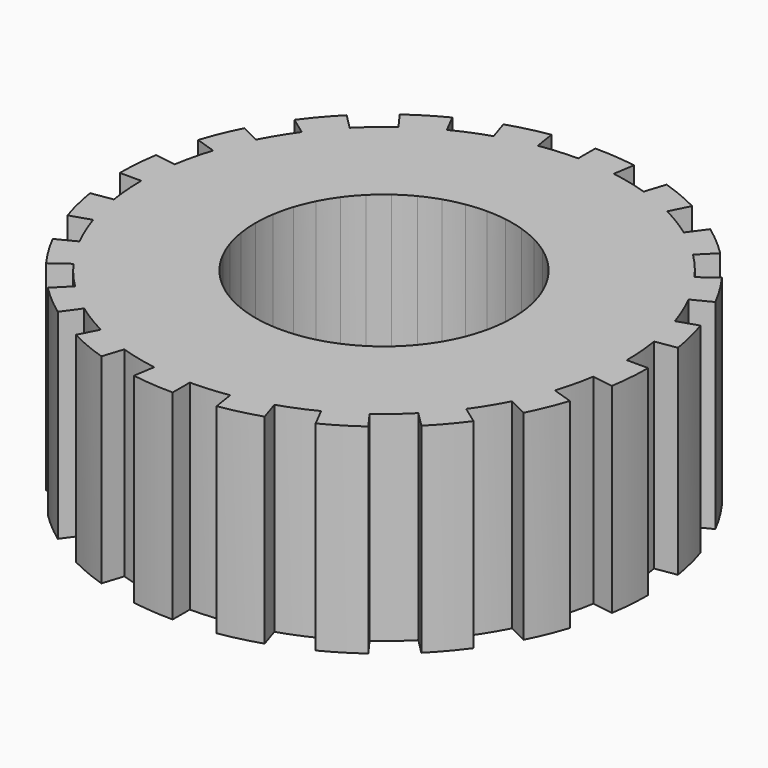
from build123d import *

# Parameters (mm, degrees)
F1_DEPTH = 14


with BuildPart() as f1:
    # F0 (on Top) → F1 (new body)
    with BuildSketch(Plane.XY):
        with BuildLine():
            Line((13.753289, -9.992349), (7.281153, -5.290067))
            ThreePointArc((7.281153, -5.290067), (6.843654, -5.845032), (6.363961, -6.363961))
            Line((6.363961, -6.363961), (12.020815, -12.020815))
            Line((12.020815, -12.020815), (13.081475, -13.081475))
            ThreePointArc((13.081475, -13.081475), (14.06751, -12.014789), (14.966814, -10.874027))
            Line((14.966814, -10.874027), (13.753289, -9.992349))
        make_face()
        with BuildLine():
            Line((15.147111, -7.717838), (8.019059, -4.085914))
            ThreePointArc((8.019059, -4.085914), (7.673761, -4.702487), (7.281153, -5.290067))
            Line((7.281153, -5.290067), (13.753289, -9.992349))
            ThreePointArc((13.753289, -9.992349), (14.494883, -8.882476), (15.147111, -7.717838))
        make_face()
        with BuildLine():
            Line((12.020815, -12.020815), (6.363961, -6.363961))
            ThreePointArc((6.363961, -6.363961), (5.845032, -6.843654), (5.290067, -7.281153))
            Line((5.290067, -7.281153), (9.992349, -13.753289))
            ThreePointArc((9.992349, -13.753289), (11.040617, -12.926901), (12.020815, -12.020815))
        make_face()
        with BuildLine():
            Line((17, 0), (9, 0))
            ThreePointArc((9, 0), (8.972256, -0.706132), (8.889195, -1.40791))
            Line((8.889195, -1.40791), (16.790702, -2.659386))
            Line((16.790702, -2.659386), (18.272234, -2.894038))
            ThreePointArc((18.272234, -2.894038), (18.442971, -1.451493), (18.5, 0))
            Line((18.5, 0), (17, 0))
        make_face()
        with BuildLine():
            Line((16.167961, -5.253289), (8.559509, -2.781153))
            ThreePointArc((8.559509, -2.781153), (8.314916, -3.444151), (8.019059, -4.085914))
            Line((8.019059, -4.085914), (15.147111, -7.717838))
            Line((15.147111, -7.717838), (16.483621, -8.398824))
            ThreePointArc((16.483621, -8.398824), (17.091771, -7.079643), (17.594546, -5.716814))
            Line((17.594546, -5.716814), (16.167961, -5.253289))
        make_face()
        with BuildLine():
            ThreePointArc((-5.290067, -7.281153), (-5.845032, -6.843654), (-6.363961, -6.363961))
            Line((-6.363961, -6.363961), (-12.020815, -12.020815))
            Line((-12.020815, -12.020815), (-13.081475, -13.081475))
            ThreePointArc((-13.081475, -13.081475), (-12.014789, -14.06751), (-10.874027, -14.966814))
            Line((-10.874027, -14.966814), (-9.992349, -13.753289))
            Line((-9.992349, -13.753289), (-5.290067, -7.281153))
        make_face()
        with BuildLine():
            Line((16.167961, 5.253289), (8.559509, 2.781153))
            ThreePointArc((8.559509, 2.781153), (8.751329, 2.101008), (8.889195, 1.40791))
            Line((8.889195, 1.40791), (16.790702, 2.659386))
            Line((16.790702, 2.659386), (18.272234, 2.894038))
            ThreePointArc((18.272234, 2.894038), (17.988844, 4.318739), (17.594546, 5.716814))
            Line((17.594546, 5.716814), (16.167961, 5.253289))
        make_face()
        with BuildLine():
            ThreePointArc((-6.363961, -6.363961), (-6.843654, -5.845032), (-7.281153, -5.290067))
            Line((-7.281153, -5.290067), (-13.753289, -9.992349))
            ThreePointArc((-13.753289, -9.992349), (-12.926901, -11.040617), (-12.020815, -12.020815))
            Line((-12.020815, -12.020815), (-6.363961, -6.363961))
        make_face()
        with BuildLine():
            Line((16.790702, 2.659386), (8.889195, 1.40791))
            ThreePointArc((8.889195, 1.40791), (8.972256, 0.706132), (9, 0))
            Line((9, 0), (17, 0))
            ThreePointArc((17, 0), (16.947595, 1.333805), (16.790702, 2.659386))
        make_face()
        with BuildLine():
            ThreePointArc((-2.781153, -8.559509), (-3.444151, -8.314916), (-4.085914, -8.019059))
            Line((-4.085914, -8.019059), (-7.717838, -15.147111))
            Line((-7.717838, -15.147111), (-8.398824, -16.483621))
            ThreePointArc((-8.398824, -16.483621), (-7.079643, -17.091771), (-5.716814, -17.594546))
            Line((-5.716814, -17.594546), (-5.253289, -16.167961))
            Line((-5.253289, -16.167961), (-2.781153, -8.559509))
        make_face()
        with BuildLine():
            Line((13.753289, 9.992349), (7.281153, 5.290067))
            ThreePointArc((7.281153, 5.290067), (7.673761, 4.702487), (8.019059, 4.085914))
            Line((8.019059, 4.085914), (15.147111, 7.717838))
            Line((15.147111, 7.717838), (16.483621, 8.398824))
            ThreePointArc((16.483621, 8.398824), (15.773843, 9.666223), (14.966814, 10.874027))
            Line((14.966814, 10.874027), (13.753289, 9.992349))
        make_face()
        with BuildLine():
            ThreePointArc((-4.085914, -8.019059), (-4.702487, -7.673761), (-5.290067, -7.281153))
            Line((-5.290067, -7.281153), (-9.992349, -13.753289))
            ThreePointArc((-9.992349, -13.753289), (-8.882476, -14.494883), (-7.717838, -15.147111))
            Line((-7.717838, -15.147111), (-4.085914, -8.019059))
        make_face()
        with BuildLine():
            Line((15.147111, 7.717838), (8.019059, 4.085914))
            ThreePointArc((8.019059, 4.085914), (8.314916, 3.444151), (8.559509, 2.781153))
            Line((8.559509, 2.781153), (16.167961, 5.253289))
            ThreePointArc((16.167961, 5.253289), (15.705952, 6.505618), (15.147111, 7.717838))
        make_face()
        with BuildLine():
            ThreePointArc((0, -9), (-0.706132, -8.972256), (-1.40791, -8.889195))
            Line((-1.40791, -8.889195), (-2.659386, -16.790702))
            Line((-2.659386, -16.790702), (-2.894038, -18.272234))
            ThreePointArc((-2.894038, -18.272234), (-1.451493, -18.442971), (0, -18.5))
            Line((0, -18.5), (0, -17))
            Line((0, -17), (0, -9))
        make_face()
        with BuildLine():
            Line((9.992349, 13.753289), (5.290067, 7.281153))
            ThreePointArc((5.290067, 7.281153), (5.845032, 6.843654), (6.363961, 6.363961))
            Line((6.363961, 6.363961), (12.020815, 12.020815))
            Line((12.020815, 12.020815), (13.081475, 13.081475))
            ThreePointArc((13.081475, 13.081475), (12.014789, 14.06751), (10.874027, 14.966814))
            Line((10.874027, 14.966814), (9.992349, 13.753289))
        make_face()
        with BuildLine():
            ThreePointArc((-1.40791, -8.889195), (-2.101008, -8.751329), (-2.781153, -8.559509))
            Line((-2.781153, -8.559509), (-5.253289, -16.167961))
            ThreePointArc((-5.253289, -16.167961), (-3.968571, -16.530289), (-2.659386, -16.790702))
            Line((-2.659386, -16.790702), (-1.40791, -8.889195))
        make_face()
        with BuildLine():
            Line((12.020815, 12.020815), (6.363961, 6.363961))
            ThreePointArc((6.363961, 6.363961), (6.843654, 5.845032), (7.281153, 5.290067))
            Line((7.281153, 5.290067), (13.753289, 9.992349))
            ThreePointArc((13.753289, 9.992349), (12.926901, 11.040617), (12.020815, 12.020815))
        make_face()
        with BuildLine():
            Line((5.716814, 17.594546), (5.253289, 16.167961))
            Line((5.253289, 16.167961), (2.781153, 8.559509))
            ThreePointArc((2.781153, 8.559509), (3.444151, 8.314916), (4.085914, 8.019059))
            Line((4.085914, 8.019059), (7.717838, 15.147111))
            Line((7.717838, 15.147111), (8.398824, 16.483621))
            ThreePointArc((8.398824, 16.483621), (7.079643, 17.091771), (5.716814, 17.594546))
        make_face()
        with BuildLine():
            Line((5.253289, -16.167961), (2.781153, -8.559509))
            ThreePointArc((2.781153, -8.559509), (2.101008, -8.751329), (1.40791, -8.889195))
            Line((1.40791, -8.889195), (2.659386, -16.790702))
            Line((2.659386, -16.790702), (2.894038, -18.272234))
            ThreePointArc((2.894038, -18.272234), (4.318739, -17.988844), (5.716814, -17.594546))
            Line((5.716814, -17.594546), (5.253289, -16.167961))
        make_face()
        with BuildLine():
            ThreePointArc((-8.019059, -4.085914), (-8.314916, -3.444151), (-8.559509, -2.781153))
            Line((-8.559509, -2.781153), (-16.167961, -5.253289))
            ThreePointArc((-16.167961, -5.253289), (-15.705952, -6.505618), (-15.147111, -7.717838))
            Line((-15.147111, -7.717838), (-8.019059, -4.085914))
        make_face()
        with BuildLine():
            ThreePointArc((-8.889195, -1.40791), (-8.972256, -0.706132), (-9, 0))
            Line((-9, 0), (-17, 0))
            ThreePointArc((-17, 0), (-16.947595, -1.333805), (-16.790702, -2.659386))
            Line((-16.790702, -2.659386), (-8.889195, -1.40791))
        make_face()
        with BuildLine():
            ThreePointArc((-7.281153, -5.290067), (-7.673761, -4.702487), (-8.019059, -4.085914))
            Line((-8.019059, -4.085914), (-15.147111, -7.717838))
            Line((-15.147111, -7.717838), (-16.483621, -8.398824))
            ThreePointArc((-16.483621, -8.398824), (-15.773843, -9.666223), (-14.966814, -10.874027))
            Line((-14.966814, -10.874027), (-13.753289, -9.992349))
            Line((-13.753289, -9.992349), (-7.281153, -5.290067))
        make_face()
        with BuildLine():
            ThreePointArc((2.894038, 18.272234), (1.451493, 18.442971), (0, 18.5))
            Line((0, 18.5), (0, 17))
            Line((0, 17), (0, 9))
            ThreePointArc((0, 9), (0.706132, 8.972256), (1.40791, 8.889195))
            Line((1.40791, 8.889195), (2.659386, 16.790702))
            Line((2.659386, 16.790702), (2.894038, 18.272234))
        make_face()
        with BuildLine():
            ThreePointArc((5.253289, 16.167961), (3.968571, 16.530289), (2.659386, 16.790702))
            Line((2.659386, 16.790702), (1.40791, 8.889195))
            ThreePointArc((1.40791, 8.889195), (2.101008, 8.751329), (2.781153, 8.559509))
            Line((2.781153, 8.559509), (5.253289, 16.167961))
        make_face()
        with BuildLine():
            Line((-1.40791, 8.889195), (-2.659386, 16.790702))
            Line((-2.659386, 16.790702), (-2.894038, 18.272234))
            ThreePointArc((-2.894038, 18.272234), (-4.318739, 17.988844), (-5.716814, 17.594546))
            Line((-5.716814, 17.594546), (-5.253289, 16.167961))
            Line((-5.253289, 16.167961), (-2.781153, 8.559509))
            ThreePointArc((-2.781153, 8.559509), (-2.101008, 8.751329), (-1.40791, 8.889195))
        make_face()
        with BuildLine():
            Line((0, 9), (0, 17))
            ThreePointArc((0, 17), (-1.333805, 16.947595), (-2.659386, 16.790702))
            Line((-2.659386, 16.790702), (-1.40791, 8.889195))
            ThreePointArc((-1.40791, 8.889195), (-0.706132, 8.972256), (0, 9))
        make_face()
        with BuildLine():
            ThreePointArc((-5.290067, 7.281153), (-4.702487, 7.673761), (-4.085914, 8.019059))
            Line((-4.085914, 8.019059), (-7.717838, 15.147111))
            Line((-7.717838, 15.147111), (-8.398824, 16.483621))
            ThreePointArc((-8.398824, 16.483621), (-9.666223, 15.773843), (-10.874027, 14.966814))
            Line((-10.874027, 14.966814), (-9.992349, 13.753289))
            Line((-9.992349, 13.753289), (-5.290067, 7.281153))
        make_face()
        with BuildLine():
            ThreePointArc((-4.085914, 8.019059), (-3.444151, 8.314916), (-2.781153, 8.559509))
            Line((-2.781153, 8.559509), (-5.253289, 16.167961))
            ThreePointArc((-5.253289, 16.167961), (-6.505618, 15.705952), (-7.717838, 15.147111))
            Line((-7.717838, 15.147111), (-4.085914, 8.019059))
        make_face()
        with BuildLine():
            ThreePointArc((-7.281153, 5.290067), (-6.843654, 5.845032), (-6.363961, 6.363961))
            Line((-6.363961, 6.363961), (-12.020815, 12.020815))
            Line((-12.020815, 12.020815), (-13.081475, 13.081475))
            ThreePointArc((-13.081475, 13.081475), (-14.06751, 12.014789), (-14.966814, 10.874027))
            Line((-14.966814, 10.874027), (-13.753289, 9.992349))
            Line((-13.753289, 9.992349), (-7.281153, 5.290067))
        make_face()
        with BuildLine():
            ThreePointArc((-6.363961, 6.363961), (-5.845032, 6.843654), (-5.290067, 7.281153))
            Line((-5.290067, 7.281153), (-9.992349, 13.753289))
            ThreePointArc((-9.992349, 13.753289), (-11.040617, 12.926901), (-12.020815, 12.020815))
            Line((-12.020815, 12.020815), (-6.363961, 6.363961))
        make_face()
        with BuildLine():
            ThreePointArc((-8.559509, 2.781153), (-8.314916, 3.444151), (-8.019059, 4.085914))
            Line((-8.019059, 4.085914), (-15.147111, 7.717838))
            Line((-15.147111, 7.717838), (-16.483621, 8.398824))
            ThreePointArc((-16.483621, 8.398824), (-17.091771, 7.079643), (-17.594546, 5.716814))
            Line((-17.594546, 5.716814), (-16.167961, 5.253289))
            Line((-16.167961, 5.253289), (-8.559509, 2.781153))
        make_face()
        with BuildLine():
            ThreePointArc((-8.019059, 4.085914), (-7.673761, 4.702487), (-7.281153, 5.290067))
            Line((-7.281153, 5.290067), (-13.753289, 9.992349))
            ThreePointArc((-13.753289, 9.992349), (-14.494883, 8.882476), (-15.147111, 7.717838))
            Line((-15.147111, 7.717838), (-8.019059, 4.085914))
        make_face()
        with BuildLine():
            ThreePointArc((-9, 0), (-8.972256, 0.706132), (-8.889195, 1.40791))
            Line((-8.889195, 1.40791), (-16.790702, 2.659386))
            Line((-16.790702, 2.659386), (-18.272234, 2.894038))
            ThreePointArc((-18.272234, 2.894038), (-18.442971, 1.451493), (-18.5, 0))
            Line((-18.5, 0), (-17, 0))
            Line((-17, 0), (-9, 0))
        make_face()
        with BuildLine():
            ThreePointArc((-8.889195, 1.40791), (-8.751329, 2.101008), (-8.559509, 2.781153))
            Line((-8.559509, 2.781153), (-16.167961, 5.253289))
            ThreePointArc((-16.167961, 5.253289), (-16.530289, 3.968571), (-16.790702, 2.659386))
            Line((-16.790702, 2.659386), (-8.889195, 1.40791))
        make_face()
        with BuildLine():
            ThreePointArc((-8.559509, -2.781153), (-8.751329, -2.101008), (-8.889195, -1.40791))
            Line((-8.889195, -1.40791), (-16.790702, -2.659386))
            Line((-16.790702, -2.659386), (-18.272234, -2.894038))
            ThreePointArc((-18.272234, -2.894038), (-17.988844, -4.318739), (-17.594546, -5.716814))
            Line((-17.594546, -5.716814), (-16.167961, -5.253289))
            Line((-16.167961, -5.253289), (-8.559509, -2.781153))
        make_face()
        with BuildLine():
            Line((7.717838, 15.147111), (4.085914, 8.019059))
            ThreePointArc((4.085914, 8.019059), (4.702487, 7.673761), (5.290067, 7.281153))
            Line((5.290067, 7.281153), (9.992349, 13.753289))
            ThreePointArc((9.992349, 13.753289), (8.882476, 14.494883), (7.717838, 15.147111))
        make_face()
        with BuildLine():
            Line((2.659386, -16.790702), (1.40791, -8.889195))
            ThreePointArc((1.40791, -8.889195), (0.706132, -8.972256), (0, -9))
            Line((0, -9), (0, -17))
            ThreePointArc((0, -17), (1.333805, -16.947595), (2.659386, -16.790702))
        make_face()
        with BuildLine():
            Line((9.992349, -13.753289), (5.290067, -7.281153))
            ThreePointArc((5.290067, -7.281153), (4.702487, -7.673761), (4.085914, -8.019059))
            Line((4.085914, -8.019059), (7.717838, -15.147111))
            Line((7.717838, -15.147111), (8.398824, -16.483621))
            ThreePointArc((8.398824, -16.483621), (9.666223, -15.773843), (10.874027, -14.966814))
            Line((10.874027, -14.966814), (9.992349, -13.753289))
        make_face()
        with BuildLine():
            Line((16.790702, -2.659386), (8.889195, -1.40791))
            ThreePointArc((8.889195, -1.40791), (8.751329, -2.101008), (8.559509, -2.781153))
            Line((8.559509, -2.781153), (16.167961, -5.253289))
            ThreePointArc((16.167961, -5.253289), (16.530289, -3.968571), (16.790702, -2.659386))
        make_face()
        with BuildLine():
            Line((7.717838, -15.147111), (4.085914, -8.019059))
            ThreePointArc((4.085914, -8.019059), (3.444151, -8.314916), (2.781153, -8.559509))
            Line((2.781153, -8.559509), (5.253289, -16.167961))
            ThreePointArc((5.253289, -16.167961), (6.505618, -15.705952), (7.717838, -15.147111))
        make_face()
    extrude(amount=F1_DEPTH)


solid = f1.part
